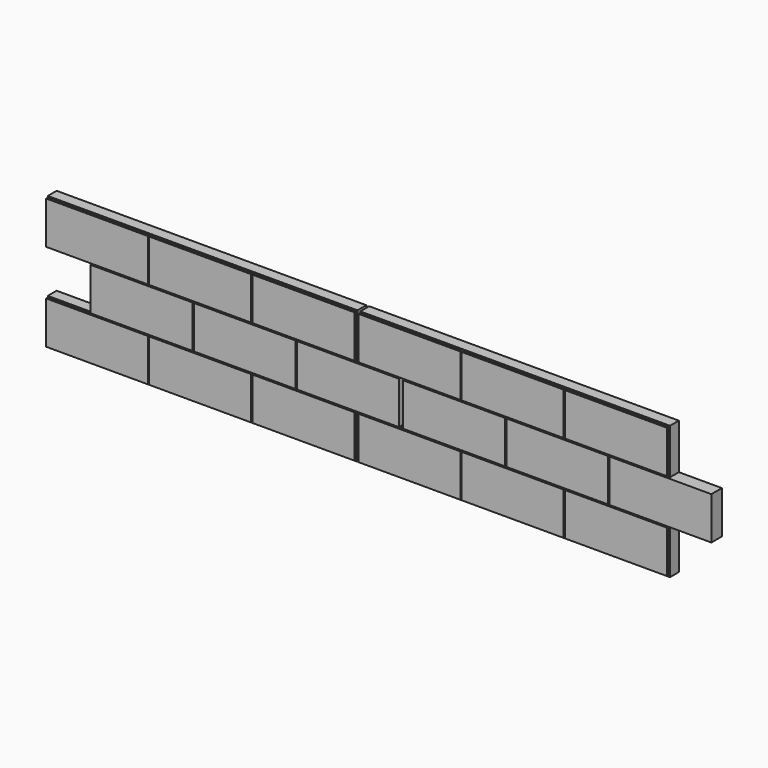
from build123d import *

# Parameters (mm, degrees)
F1_DEPTH = 25.4
F2_W     = 233.172
F2_H     = 97.366667
F2_W_2   = 232.664
F2_W_3   = 232.918
F2_H_2   = 97.366666
F3_DEPTH = 4.7752
F4_DEPTH = 4.7752
F5_W     = 98.425
F5_H     = 3.175
F6_DEPTH = 25.4
F7_W     = 3.175
F7_H     = 304.8
F8_DEPTH = 25.4


with BuildPart() as f1:
    # F0 (on Front) → F1 (new body)
    with BuildSketch(Plane.XZ):
        Polygon((-304.8, 149.225), (-304.8, 152.4), (-406.4, 152.4), (-406.4, 48.683333), (-304.8, 48.683333), (-304.8, 51.858333), align=None)
        Polygon((-304.8, -51.858333), (-304.8, -48.683333), (-406.4, -48.683333), (-406.4, -152.4), (-304.8, -152.4), (-304.8, -149.225), align=None)
        Polygon((304.8, 152.4), (-304.8, 152.4), (-304.8, 149.225), (-304.8, 51.858333), (-304.8, 48.683333), (-304.8, -48.683333), (-304.8, -51.858333), (-304.8, -149.225), (-304.8, -152.4), (304.8, -152.4), (304.8, -149.225), (304.8, -51.858333), (304.8, -48.683333), (304.8, 48.683333), (304.8, 51.858333), (304.8, 149.225), align=None)
        Polygon((406.4, 51.858333), (304.8, 51.858333), (304.8, 48.683333), (304.8, -48.683333), (304.8, -51.858333), (406.4, -51.858333), align=None)
    extrude(amount=-F1_DEPTH)

    # F2 (on face) → F3 (join)
    with BuildSketch(Plane.XZ):
        with Locations((-50.8, 100.541666)):
            Rectangle(F2_W, F2_H)
        with Locations((-286.893, 100.541666)):
            Rectangle(F2_W_2, F2_H)
        with Locations((286.766, 0)):
            Rectangle(F2_W_3, F2_H_2)
        with Locations((50.8, 0)):
            Rectangle(F2_W_2, F2_H_2)
    extrude(amount=F3_DEPTH)

    # F2 (on face) → F4 (join)
    with BuildSketch(Plane.XZ):
        with Locations((-286.893, -100.541666)):
            Rectangle(F2_W_2, F2_H)
        with Locations((-185.166, 0)):
            Rectangle(F2_W_3, F2_H_2)
        with Locations((-50.8, -100.541666)):
            Rectangle(F2_W, F2_H)
        with Locations((185.293, -100.541666)):
            Rectangle(F2_W_2, F2_H)
        with Locations((185.293, 100.541666)):
            Rectangle(F2_W_2, F2_H)
    extrude(amount=F4_DEPTH)

    # F5 (on face) → F6 (cut)
    with BuildSketch(Plane.XZ):
        Polygon((406.4, 51.858333), (304.8, 51.858333), (304.8, 48.683333), (403.225, 48.683333), (406.4, 48.683333), align=None)
        Polygon((406.4, -51.858333), (406.4, 48.683333), (403.225, 48.683333), (403.225, -48.683333), (403.225, -51.858333), align=None)
        with Locations((354.0125, -50.270833)):
            Rectangle(F5_W, F5_H)
    extrude(amount=-F6_DEPTH, mode=Mode.SUBTRACT)

    # F7 (on face) → F8 (cut)
    with BuildSketch(Plane.XZ):
        with Locations((-404.8125, 0)):
            Rectangle(F7_W, F7_H)
    extrude(amount=-F8_DEPTH, mode=Mode.SUBTRACT)


with BuildPart() as f9_1:
    # F9: copy of F1
    add(f1.part.moved(Location((708.025, 0, 0))))


with BuildPart() as f9_1_1:
    # F10: moved
    add(f9_1.part.moved(Location((6.35, 0, 0))))


solid = Compound([f1.part, f9_1_1.part])
